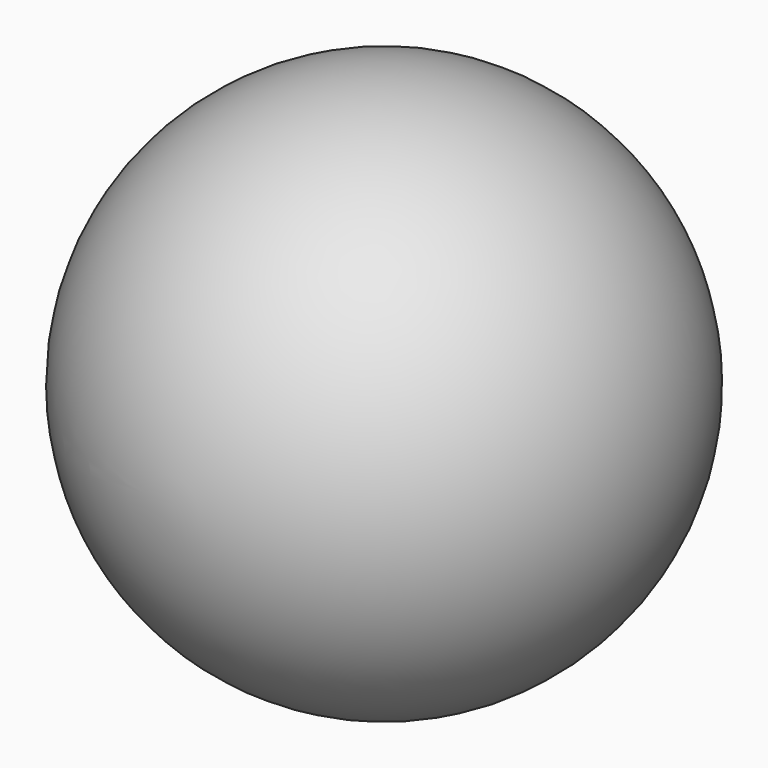
from build123d import *

# Parameters (mm, degrees)
F2_R     = 2.5
F3_DEPTH = 100


with BuildPart() as f1:
    # F0 (on Top) → F1 (revolve)
    with BuildSketch(Plane.XY):
        with BuildLine():
            ThreePointArc((0, 25), (-25, 0), (0, -25))
            Line((0, -25), (0, -22.5))
            ThreePointArc((0, -22.5), (-22.5, 0), (0, 22.5))
            Line((0, 22.5), (0, 25))
        make_face()
    revolve(axis=Axis((0, 0, 0), (0, 1, 0)))

    # F2 (on Top) → F3 (cut)
    with BuildSketch(Plane.XY):
        Circle(F2_R)
    extrude(amount=-F3_DEPTH, mode=Mode.SUBTRACT)


solid = f1.part
